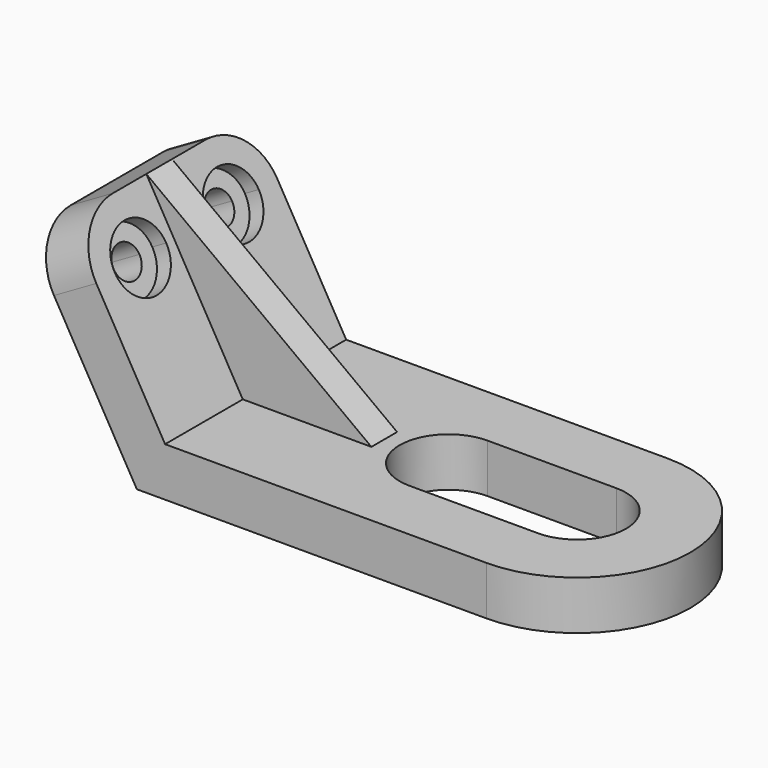
from build123d import *

# Parameters (mm, degrees)
F1_DEPTH  = 9.652
F2_DEPTH  = 9.652
F4_DEPTH  = 44.704
F5_R      = 10.922
F7_DEPTH  = 3.175
F9_DEPTH  = 100.5007969078
F12_DEPTH = 3.175


with BuildPart() as f1:
    # F0 (on Top) → F1 (new body)
    with BuildSketch(Plane.XY):
        with BuildLine():
            Line((83.4274074162, 44.704), (19.9274074162, 44.704))
            Line((19.9274074162, 44.704), (19.9274074162, 0))
            Line((19.9274074162, 0), (83.4274074162, 0))
            Line((83.4274074162, 0), (83.4274074162, 12.7))
            Line((83.4274074162, 12.7), (58.0274074162, 12.7))
            ThreePointArc((58.0274074162, 12.7), (48.3754074162, 22.352), (58.0274074162, 32.004))
            Line((58.0274074162, 32.004), (83.4274074162, 32.004))
            Line((83.4274074162, 32.004), (83.4274074162, 44.704))
        make_face()
    extrude(amount=F1_DEPTH)

    # F0 (on Top) → F2 (join)
    with BuildSketch(Plane.XY):
        with BuildLine():
            ThreePointArc((83.4274074162, 0), (105.7794074162, 22.352), (83.4274074162, 44.704))
            Line((83.4274074162, 44.704), (83.4274074162, 32.004))
            ThreePointArc((83.4274074162, 32.004), (93.0794074162, 22.352), (83.4274074162, 12.7))
            Line((83.4274074162, 12.7), (83.4274074162, 0))
        make_face()
    extrude(amount=F2_DEPTH)

    # F3 (on face) → F4 (join)
    with BuildSketch(Plane.XZ):
        Polygon((19.9274074162, 0), (19.9274074162, 9.652), (0.8774074162, 42.6475678842), (-7.4814697811, 37.8215678842), (14.354822618, 0), align=None)
    extrude(amount=-F4_DEPTH)

    # F5
    f5_edges = [f1.edges().sort_by_distance(p)[0] for p in [
        (-3.302031, 0, 40.234568),
        (-3.302031, 44.704, 40.234568),
    ]]
    fillet(f5_edges, radius=F5_R)

    # F6 (on face) → F7 (cut)
    with BuildSketch(Plane(origin=(19.1249941608, 0, 11.041820527), x_dir=(0, 1, 0), z_dir=(0.8660254038, 0, 0.5))):
        with BuildLine():
            Line((17.272, 25.5731734892), (10.922, 25.5731734892))
            Line((10.922, 25.5731734892), (4.572, 25.5731734892))
            ThreePointArc((4.572, 25.5731734892), (10.922, 19.2231734892), (17.272, 25.5731734892))
        make_face()
        with BuildLine():
            Line((10.922, 31.9231734892), (10.922, 25.5731734892))
            Line((10.922, 25.5731734892), (17.272, 25.5731734892))
            ThreePointArc((17.272, 25.5731734892), (15.4121280605, 30.0633015498), (10.922, 31.9231734892))
        make_face()
        with BuildLine():
            Line((4.572, 25.5731734892), (10.922, 25.5731734892))
            Line((10.922, 25.5731734892), (10.922, 31.9231734892))
            ThreePointArc((10.922, 31.9231734892), (6.4318719395, 30.0633015498), (4.572, 25.5731734892))
        make_face()
        with BuildLine():
            ThreePointArc((33.782, 31.9231734892), (29.2918719395, 30.0633015498), (27.432, 25.5731734892))
            Line((27.432, 25.5731734892), (33.782, 25.5731734892))
            Line((33.782, 25.5731734892), (33.782, 31.9231734892))
        make_face()
        with BuildLine():
            Line((33.782, 31.9231734892), (33.782, 25.5731734892))
            Line((33.782, 25.5731734892), (40.132, 25.5731734892))
            ThreePointArc((40.132, 25.5731734892), (38.2721280605, 30.0633015498), (33.782, 31.9231734892))
        make_face()
        with BuildLine():
            Line((33.782, 25.5731734892), (27.432, 25.5731734892))
            ThreePointArc((27.432, 25.5731734892), (33.782, 19.2231734892), (40.132, 25.5731734892))
            Line((40.132, 25.5731734892), (33.782, 25.5731734892))
        make_face()
    extrude(amount=-F7_DEPTH, mode=Mode.SUBTRACT)

    # F8 (on face) → F9 (cut, through all)
    with BuildSketch(Plane(origin=(10.7661169635, 0, 6.215820527), x_dir=(0, -1, 0), z_dir=(-0.8660254038, 0, -0.5))):
        with BuildLine():
            Line((-30.607, 25.5731734892), (-33.782, 25.5731734892))
            Line((-33.782, 25.5731734892), (-36.957, 25.5731734892))
            ThreePointArc((-36.957, 25.5731734892), (-33.782, 22.3981734892), (-30.607, 25.5731734892))
        make_face()
        with BuildLine():
            Line((-33.782, 25.5731734892), (-33.782, 28.7481734892))
            ThreePointArc((-33.782, 28.7481734892), (-36.0270640303, 27.8182375195), (-36.957, 25.5731734892))
            Line((-36.957, 25.5731734892), (-33.782, 25.5731734892))
        make_face()
        with BuildLine():
            ThreePointArc((-30.607, 25.5731734892), (-31.5369359697, 27.8182375195), (-33.782, 28.7481734892))
            Line((-33.782, 28.7481734892), (-33.782, 25.5731734892))
            Line((-33.782, 25.5731734892), (-30.607, 25.5731734892))
        make_face()
        with BuildLine():
            Line((-10.922, 25.5731734892), (-10.922, 28.7481734892))
            ThreePointArc((-10.922, 28.7481734892), (-13.1670640303, 27.8182375195), (-14.097, 25.5731734892))
            Line((-14.097, 25.5731734892), (-10.922, 25.5731734892))
        make_face()
        with BuildLine():
            ThreePointArc((-7.747, 25.5731734892), (-8.6769359697, 27.8182375195), (-10.922, 28.7481734892))
            Line((-10.922, 28.7481734892), (-10.922, 25.5731734892))
            Line((-10.922, 25.5731734892), (-7.747, 25.5731734892))
        make_face()
        with BuildLine():
            Line((-10.922, 25.5731734892), (-14.097, 25.5731734892))
            ThreePointArc((-14.097, 25.5731734892), (-10.922, 22.3981734892), (-7.747, 25.5731734892))
            Line((-7.747, 25.5731734892), (-10.922, 25.5731734892))
        make_face()
    extrude(amount=-F9_DEPTH, mode=Mode.SUBTRACT)

    # F11 (on offset) → F12 (join, symmetric)
    with BuildSketch(Plane.XZ.offset(-22.352)):
        Polygon((0.8774074162, 42.6475678842), (19.9274074162, 9.652), (45.3274074162, 9.652), align=None)
    extrude(amount=F12_DEPTH, both=True)


solid = f1.part
